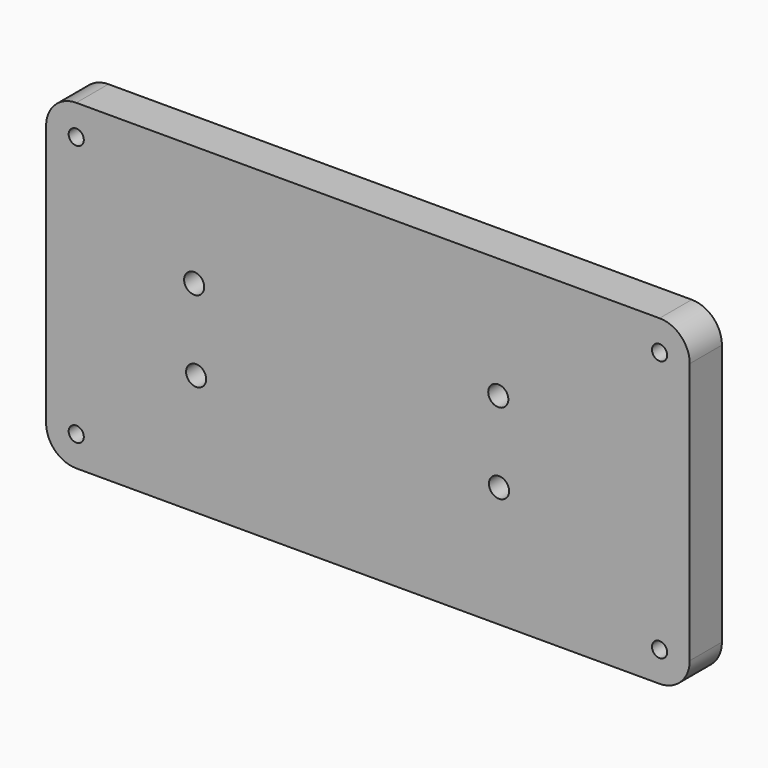
from build123d import *

# Parameters (mm, degrees)
F0_W     = 203.2
F0_H     = 101.6
F1_DEPTH = 12.7
F2_R     = 9.525
F4_D     = 4.7752
F5_D     = 6.35


with BuildPart() as f1:
    # F0 (on Front) → F1 (new body)
    with BuildSketch(Plane.XZ):
        with Locations((-9.091739, -27.215328)):
            Rectangle(F0_W, F0_H)
    extrude(amount=F1_DEPTH)

    # F2
    f2_edges = [f1.edges().sort_by_distance(p)[0] for p in [
        (-110.691739, -6.35, 23.584672),
        (-110.691739, -6.35, -78.015328),
        (92.508261, -6.35, 23.584672),
        (92.508261, -6.35, -78.015328),
    ]]
    fillet(f2_edges, radius=F2_R)

    # F4 (through all)
    with Locations(Plane.XZ.offset(12.7)):
        with Locations((-101.166739, 14.059672), (-101.166739, -68.490328), (82.983261, 14.059672), (82.983261, -68.490328)):
            Hole(F4_D / 2)

    # F5 (through all)
    with Locations(Plane.XZ.offset(12.7)):
        with Locations((-63.938983, -14.515328), (-63.322611, -39.915328), (32.066669, -14.515328), (32.300021, -39.915328)):
            Hole(F5_D / 2)


solid = f1.part
